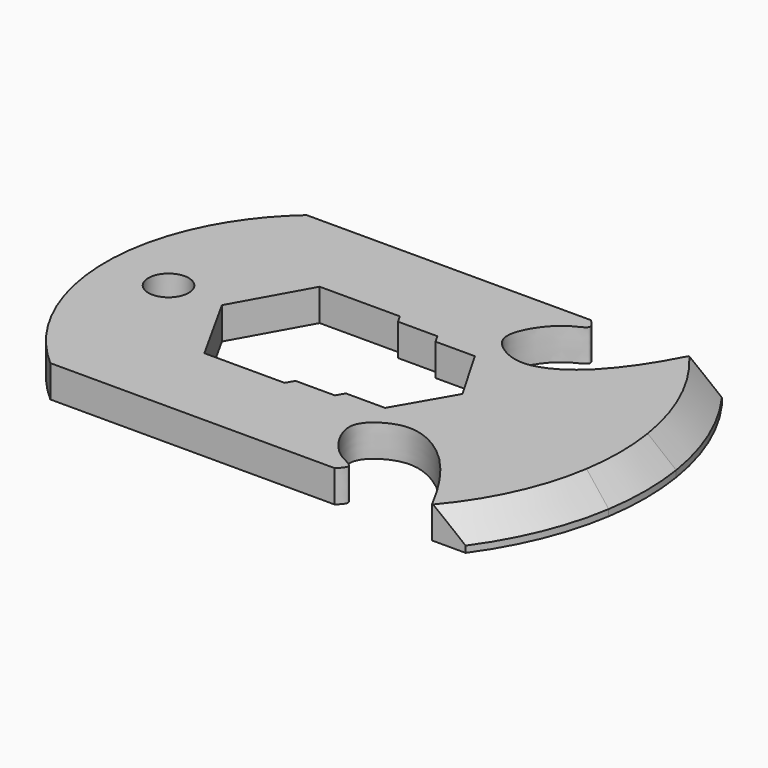
from build123d import *

# Parameters (mm, degrees)
F0_R     = 2
F1_DEPTH = 3.175
F2_SIZE2 = 2.54
F2_SIZE  = 2.54


with BuildPart() as f1:
    # F0 (on Top) → F1 (new body)
    with BuildSketch(Plane.XY):
        with BuildLine():
            Line((-25.4, -9.7533396771), (-25.4, 9.7533396771))
            ThreePointArc((-25.4, 9.7533396771), (-27.7943947705, 0), (-25.4, -9.7533396771))
        make_face()
        with BuildLine():
            Line((7.5996425003, 15.875), (-20.574, 15.875))
            ThreePointArc((-20.574, 15.875), (-23.2726776835, 13.0393833309), (-25.4, 9.7533396771))
            Line((-25.4, 9.7533396771), (-25.4, -9.7533396771))
            ThreePointArc((-25.4, -9.7533396771), (-23.2726776835, -13.0393833309), (-20.574, -15.875))
            Line((-20.574, -15.875), (7.5996425003, -15.875))
            add(Edge.make_bspline(
                [(17.2575954348, -15.875), (16.8118674755, -15.0360308318), (15.7777378861, -13.0895457095), (12.6385533239, -8.7628284751), (8.4438454096, -6.4903546022), (5.4576611574, -7.5578133093), (3.6996913649, -9.434816458), (4.9096520026, -12.30721807), (6.6995754798, -14.1477736043), (8.6865320781, -14.7997007485), (7.9445844593, -15.5337364181), (7.5996425003, -15.875)],
                knots=[0, 0, 0, 0, 0.1172509784, 0.2720329825, 0.4136469471, 0.5269156212, 0.6254604471, 0.7364742974, 0.8471369559, 0.9289318052, 1, 1, 1, 1], degree=3))
            Line((17.2575954348, -15.875), (19.5524021983, -15.875))
            ThreePointArc((19.5524021983, -15.875), (24.535980368, 0), (19.5524021983, 15.875))
            Line((19.5524021983, 15.875), (17.2575954348, 15.875))
            add(Edge.make_bspline(
                [(17.2575954348, 15.875), (16.8118674755, 15.0360308318), (15.7777378861, 13.0895457095), (12.6385533239, 8.7628284751), (8.4438454096, 6.4903546022), (5.4576611574, 7.5578133093), (3.6996913649, 9.434816458), (4.9096520026, 12.30721807), (6.6995754798, 14.1477736043), (8.6865320781, 14.7997007485), (7.9445844593, 15.5337364181), (7.5996425003, 15.875)],
                knots=[0, 0, 0, 0, 0.1172509784, 0.2720329825, 0.4136469471, 0.5269156212, 0.6254604471, 0.7364742974, 0.8471369559, 0.9289318052, 1, 1, 1, 1], degree=3))
        make_face()
        with Locations((-21.5576495975, 0)):
            Circle(F0_R, mode=Mode.SUBTRACT)
        Polygon((-16.2712801248, 0), (-12.2982449182, 7.1374), (-4.3480449182, 7.1374), (-3.8934393163, 6.35), (0, 6.35), (0.4617137668, 5.5502882974), (4.3540745974, 5.5502882974), (7.5559447504, 0.0061843585), (4.3434, -5.5581063708), (0.4572, -5.5581063708), (0, -6.35), (-3.8934393163, -6.35), (-4.3480449182, -7.1374), (-12.2982449182, -7.1374), align=None, mode=Mode.SUBTRACT)
        with BuildLine():
            ThreePointArc((25.4, -4.1788812389), (25.7248773783, 0), (25.4, 4.1788812389))
            Line((25.4, 4.1788812389), (25.4, -4.1788812389))
        make_face()
        with BuildLine():
            Line((20.574, 15.875), (19.5524021983, 15.875))
            ThreePointArc((19.5524021983, 15.875), (24.535980368, 0), (19.5524021983, -15.875))
            Line((19.5524021983, -15.875), (20.574, -15.875))
            ThreePointArc((20.574, -15.875), (23.6807693851, -10.3132006276), (25.4, -4.1788812389))
            Line((25.4, -4.1788812389), (25.4, 4.1788812389))
            ThreePointArc((25.4, 4.1788812389), (23.6807693851, 10.3132006276), (20.574, 15.875))
        make_face()
    extrude(amount=F1_DEPTH)

    # F2
    f2_edges = [f1.edges().sort_by_distance(p)[0] for p in [
        (25.724877, 0, 3.175),
    ]]
    chamfer(f2_edges, length=F2_SIZE, length2=F2_SIZE2)


solid = f1.part
